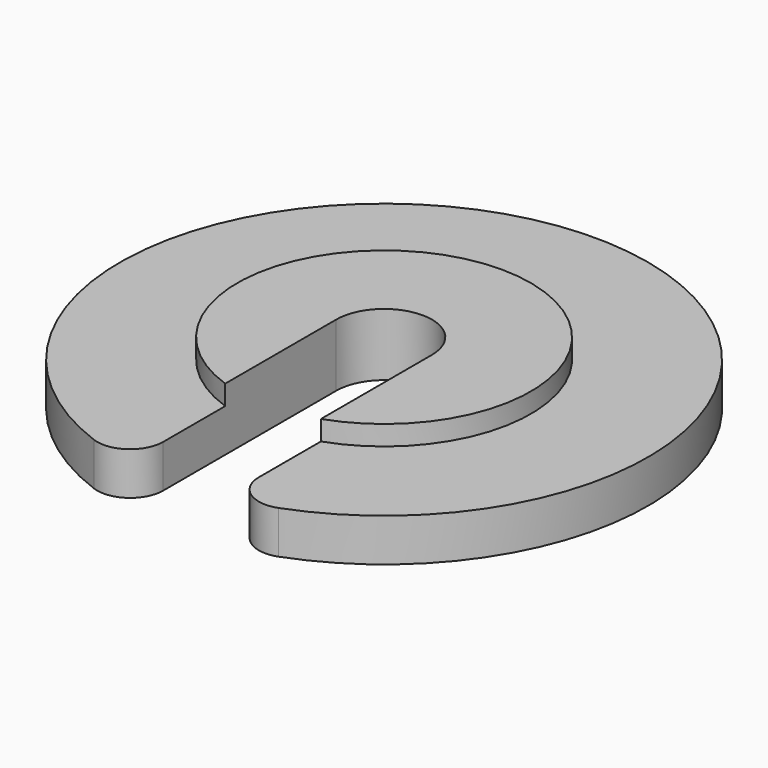
from build123d import *

# Parameters (mm, degrees)
F1_DEPTH = 1.9
F2_R     = 8
F2_R_2   = 4.45
F3_DEPTH = 0.6


with BuildPart() as f1:
    # F0 (on Top) → F1 (new body)
    with BuildSketch(Plane.XY):
        with BuildLine():
            ThreePointArc((-1.45, 0), (0, 1.45), (1.45, 0))
            Line((1.45, 0), (1.45, -6.5572478983))
            ThreePointArc((1.45, -6.5572478983), (1.8799122875, -7.3788317346), (2.8, -7.4939975981))
            ThreePointArc((2.8, -7.4939975981), (0, 8), (-2.8, -7.4939975981))
            ThreePointArc((-2.8, -7.4939975981), (-1.8799122875, -7.3788317346), (-1.45, -6.5572478983))
            Line((-1.45, -6.5572478983), (-1.45, 0))
        make_face()
    extrude(amount=F1_DEPTH)

    # F2 (on face) → F3 (cut)
    with BuildSketch(Plane.XY.offset(1.9)):
        Circle(F2_R)
        Circle(F2_R_2, mode=Mode.SUBTRACT)
    extrude(amount=-F3_DEPTH, mode=Mode.SUBTRACT)


solid = f1.part
